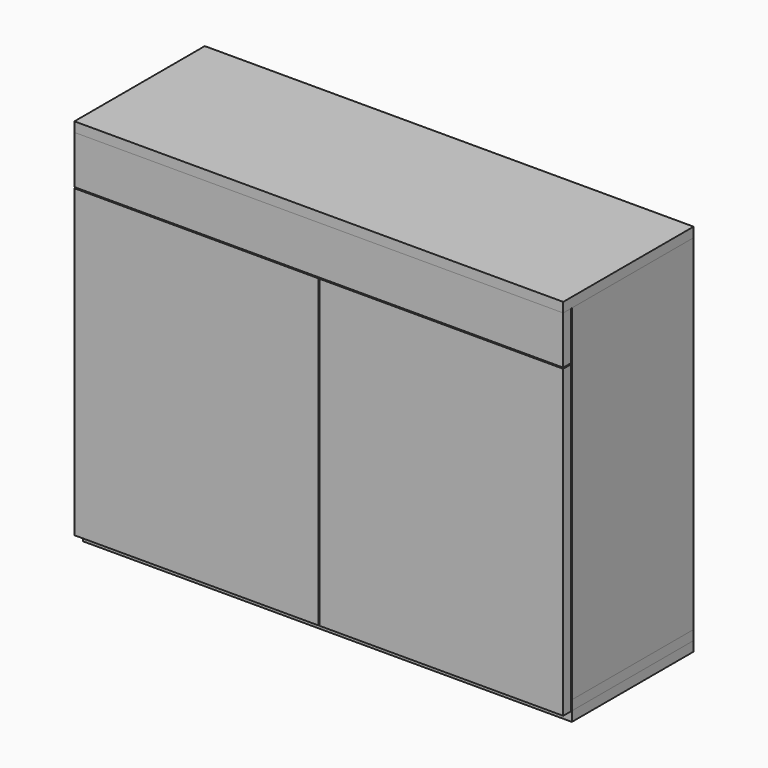
from build123d import *

# Parameters (mm, degrees)
F0_W      = 914.4
F0_H      = 284.54
F1_DEPTH  = 18.26
F2_W      = 18.26
F2_H      = 284.54
F3_DEPTH  = 645.22
F4_W      = 877.88
F4_H      = 18.26
F5_DEPTH  = 645.22
F6_W      = 36.52
F6_H      = 18.26
F7_DEPTH  = 645.22
F8_DEPTH  = 18.26
F10_W     = 914.4
F10_H     = 90
F11_DEPTH = 18.26
F12_W     = 914.4
F12_H     = 304.8
F13_DEPTH = 18.26
F14_W     = 456.2
F14_H     = 571.48
F15_DEPTH = 18.26
F17_DEPTH = 25


with BuildPart() as f1:
    # F0 (on Top) → F1 (new body)
    with BuildSketch(Plane.XY):
        Rectangle(F0_W, F0_H)
    extrude(amount=F1_DEPTH)


with BuildPart() as f3:
    # F2 (on face) → F3 (new body)
    with BuildSketch(Plane.XY.offset(18.26)):
        with Locations((448.07, 0)):
            Rectangle(F2_W, F2_H)
    extrude(amount=F3_DEPTH)


with BuildPart() as f3b:
    # F2 (on face) → F3, piece 2 (new body)
    with BuildSketch(Plane.XY.offset(18.26)):
        with Locations((-448.07, 0)):
            Rectangle(F2_W, F2_H)
    extrude(amount=F3_DEPTH)


with BuildPart() as f5:
    # F4 (on face) → F5 (new body, through all)
    with BuildSketch(Plane.XY.offset(18.26)):
        with Locations((0, 133.14)):
            Rectangle(F4_W, F4_H)
    extrude(amount=F5_DEPTH)

    # F16 (on face) → F17 (cut)
    with BuildSketch(Plane(origin=(0, 142.27, 0), x_dir=(-1, 0, 0), z_dir=(0, 1, 0))):
        with BuildLine():
            ThreePointArc((-363.94, 573.48), (-346.2623304703, 580.8023304703), (-338.94, 598.48))
            ThreePointArc((-338.94, 598.48), (-346.2623304703, 616.1576695297), (-363.94, 623.48))
            ThreePointArc((-363.94, 623.48), (-388.94, 598.48), (-363.94, 573.48))
        make_face()
        with BuildLine():
            ThreePointArc((-363.94, 623.48), (-346.2623304703, 616.1576695297), (-338.94, 598.48))
            ThreePointArc((-338.94, 598.48), (-346.2623304703, 580.8023304703), (-363.94, 573.48))
            Line((-363.94, 573.48), (-283.94, 573.48))
            ThreePointArc((-283.94, 573.48), (-308.94, 598.48), (-283.94, 623.48))
            Line((-283.94, 623.48), (-363.94, 623.48))
        make_face()
        with BuildLine():
            ThreePointArc((-258.94, 598.48), (-266.2623304703, 616.1576695297), (-283.94, 623.48))
            ThreePointArc((-283.94, 623.48), (-308.94, 598.48), (-283.94, 573.48))
            ThreePointArc((-283.94, 573.48), (-266.2623304703, 580.8023304703), (-258.94, 598.48))
        make_face()
        with BuildLine():
            ThreePointArc((40, 573.48), (57.6776695297, 580.8023304703), (65, 598.48))
            ThreePointArc((65, 598.48), (57.6776695297, 616.1576695297), (40, 623.48))
            ThreePointArc((40, 623.48), (15, 598.48), (40, 573.48))
        make_face()
        with BuildLine():
            ThreePointArc((40, 573.48), (15, 598.48), (40, 623.48))
            Line((40, 623.48), (-40, 623.48))
            ThreePointArc((-40, 623.48), (-22.3223304703, 616.1576695297), (-15, 598.48))
            ThreePointArc((-15, 598.48), (-22.3223304703, 580.8023304703), (-40, 573.48))
            Line((-40, 573.48), (40, 573.48))
        make_face()
        with BuildLine():
            ThreePointArc((-15, 598.48), (-22.3223304703, 616.1576695297), (-40, 623.48))
            ThreePointArc((-40, 623.48), (-65, 598.48), (-40, 573.48))
            ThreePointArc((-40, 573.48), (-22.3223304703, 580.8023304703), (-15, 598.48))
        make_face()
        with BuildLine():
            ThreePointArc((363.94, 573.48), (381.6176695297, 580.8023304703), (388.94, 598.48))
            ThreePointArc((388.94, 598.48), (381.6176695297, 616.1576695297), (363.94, 623.48))
            ThreePointArc((363.94, 623.48), (338.94, 598.48), (363.94, 573.48))
        make_face()
        with BuildLine():
            ThreePointArc((363.94, 573.48), (338.94, 598.48), (363.94, 623.48))
            Line((363.94, 623.48), (283.94, 623.48))
            ThreePointArc((283.94, 623.48), (301.6176695297, 616.1576695297), (308.94, 598.48))
            ThreePointArc((308.94, 598.48), (301.6176695297, 580.8023304703), (283.94, 573.48))
            Line((283.94, 573.48), (363.94, 573.48))
        make_face()
        with BuildLine():
            ThreePointArc((308.94, 598.48), (301.6176695297, 616.1576695297), (283.94, 623.48))
            ThreePointArc((283.94, 623.48), (258.94, 598.48), (283.94, 573.48))
            ThreePointArc((283.94, 573.48), (301.6176695297, 580.8023304703), (308.94, 598.48))
        make_face()
        with BuildLine():
            ThreePointArc((121.97, 38.26), (139.6476695297, 45.5823304703), (146.97, 63.26))
            ThreePointArc((146.97, 63.26), (139.6476695297, 80.9376695297), (121.97, 88.26))
            ThreePointArc((121.97, 88.26), (96.97, 63.26), (121.97, 38.26))
        make_face()
        with BuildLine():
            ThreePointArc((121.97, 88.26), (139.6476695297, 80.9376695297), (146.97, 63.26))
            ThreePointArc((146.97, 63.26), (139.6476695297, 45.5823304703), (121.97, 38.26))
            Line((121.97, 38.26), (201.97, 38.26))
            ThreePointArc((201.97, 38.26), (176.97, 63.26), (201.97, 88.26))
            Line((201.97, 88.26), (121.97, 88.26))
        make_face()
        with BuildLine():
            ThreePointArc((226.97, 63.26), (219.6476695297, 80.9376695297), (201.97, 88.26))
            ThreePointArc((201.97, 88.26), (176.97, 63.26), (201.97, 38.26))
            ThreePointArc((201.97, 38.26), (219.6476695297, 45.5823304703), (226.97, 63.26))
        make_face()
        with BuildLine():
            ThreePointArc((-176.97, 63.26), (-184.2923304703, 45.5823304703), (-201.97, 38.26))
            Line((-201.97, 38.26), (-121.97, 38.26))
            ThreePointArc((-121.97, 38.26), (-146.97, 63.26), (-121.97, 88.26))
            Line((-121.97, 88.26), (-201.97, 88.26))
            ThreePointArc((-201.97, 88.26), (-184.2923304703, 80.9376695297), (-176.97, 63.26))
        make_face()
        with BuildLine():
            ThreePointArc((-201.97, 88.26), (-226.97, 63.26), (-201.97, 38.26))
            ThreePointArc((-201.97, 38.26), (-184.2923304703, 45.5823304703), (-176.97, 63.26))
            ThreePointArc((-176.97, 63.26), (-184.2923304703, 80.9376695297), (-201.97, 88.26))
        make_face()
        with BuildLine():
            ThreePointArc((-121.97, 88.26), (-146.97, 63.26), (-121.97, 38.26))
            ThreePointArc((-121.97, 38.26), (-104.2923304703, 45.5823304703), (-96.97, 63.26))
            ThreePointArc((-96.97, 63.26), (-104.2923304703, 80.9376695297), (-121.97, 88.26))
        make_face()
    extrude(amount=-F17_DEPTH, mode=Mode.SUBTRACT)


with BuildPart() as f7:
    # F6 (on face) → F7 (new body, through all)
    with BuildSketch(Plane.XY.offset(18.26)):
        with Locations((0, -133.14)):
            Rectangle(F6_W, F6_H)
    extrude(amount=F7_DEPTH)


with BuildPart() as f8:
    # F8 (new): a face of the model
    f8_faces = [f1.part.faces().sort_by_distance(p)[0] for p in [
        (0, 0, 0),
    ]]
    extrude(f8_faces, amount=F8_DEPTH)


with BuildPart() as f11:
    # F10 (on offset) → F11 (new body)
    with BuildSketch(Plane.XZ.offset(144.27)):
        with Locations((0, 618.48)):
            Rectangle(F10_W, F10_H)
    extrude(amount=F11_DEPTH)


with BuildPart() as f13:
    # F12 (on face) → F13 (new body)
    with BuildSketch(Plane.XY.offset(663.48)):
        with Locations((0, -10.13)):
            Rectangle(F12_W, F12_H)
    extrude(amount=F13_DEPTH)


with BuildPart() as f15:
    # F14 (on offset) → F15 (new body)
    with BuildSketch(Plane.XZ.offset(144.27)):
        with Locations((-229.1, 285.74)):
            Rectangle(F14_W, F14_H)
    extrude(amount=F15_DEPTH)


with BuildPart() as f15b:
    # F14 (on offset) → F15, piece 2 (new body)
    with BuildSketch(Plane.XZ.offset(144.27)):
        with Locations((229.1, 285.74)):
            Rectangle(F14_W, F14_H)
    extrude(amount=F15_DEPTH)


solid = Compound([f1.part, f3.part, f3b.part, f5.part, f7.part, f8.part, f11.part, f13.part, f15.part, f15b.part])
